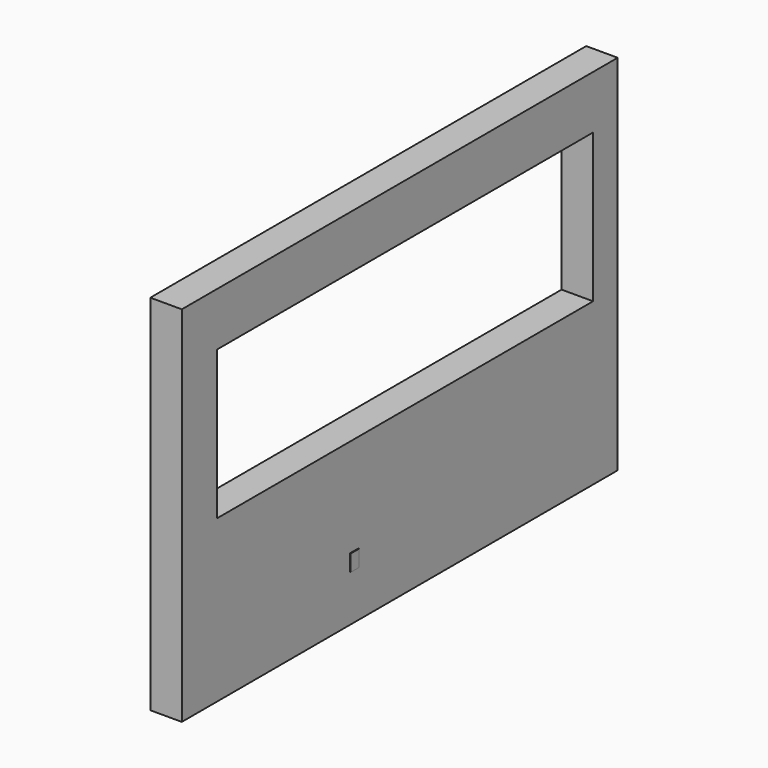
from build123d import *

# Parameters (mm, degrees)
SKETCH_W     = 3630
SKETCH_H     = 2420
SKETCH_W_2   = 3130
SKETCH_H_2   = 990
PAD_DEPTH    = 210
SKETCH001_W  = 70
SKETCH001_H  = 110
PAD001_DEPTH = 5


with BuildPart() as part:
    # Sketch → Pad (new body)
    with BuildSketch(Plane.YZ):
        with Locations((-1815, 1210)):
            Rectangle(SKETCH_W, SKETCH_H)
        with Locations((-1770, 1570)):
            Rectangle(SKETCH_W_2, SKETCH_H_2, mode=Mode.SUBTRACT)
    extrude(amount=-PAD_DEPTH)

    # Sketch001 (on Face9 of Pad) → Pad001 (join)
    with BuildSketch(Plane.YZ):
        with Locations((-2195, 365)):
            Rectangle(SKETCH001_W, SKETCH001_H)
    extrude(amount=PAD001_DEPTH)


solid = part.part
